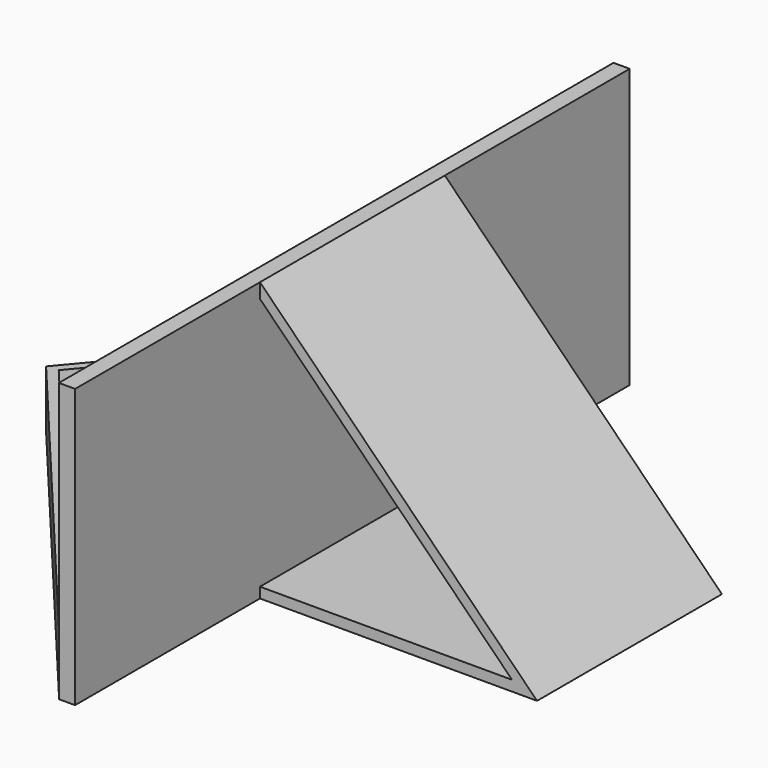
from build123d import *

# Parameters (mm, degrees)
F1_DEPTH = 101.6
F2_DEPTH = 50.8
F3_DEPTH = 50.8
F5_DEPTH = 12.7


with BuildPart() as f1:
    # F0 (on Front) → F1 (new body)
    with BuildSketch(Plane.XZ):
        Polygon((0, 61.214138), (0, 0), (3.565873, 0), (3.565873, 2.286), (3.565873, 57.973351), (3.565873, 61.214138), align=None)
    extrude(amount=F1_DEPTH)

    # F0 (on Front) → F2 (join)
    with BuildSketch(Plane.XZ):
        Polygon((3.565873, 2.286), (3.565873, 0), (64.482857, 0), (3.565873, 61.214138), (3.565873, 57.973351), (58.982899, 2.286), align=None)
    extrude(amount=F2_DEPTH)

    # F0 (on Front) → F3 (join)
    with BuildSketch(Plane.XZ):
        Polygon((0, 61.214138), (0, 0), (3.565873, 0), (3.565873, 2.286), (3.565873, 57.973351), (3.565873, 61.214138), align=None)
    extrude(amount=-F3_DEPTH)

    # F4 (on Top) → F5 (join)
    with BuildSketch(Plane.XY):
        Polygon((0, 47.907468), (0, 50.730321), (-63.773681, -25.40238), (0, -101.535082), (0, -98.203303), (-61.195922, -25.147918), align=None)
    extrude(amount=F5_DEPTH)


solid = f1.part
